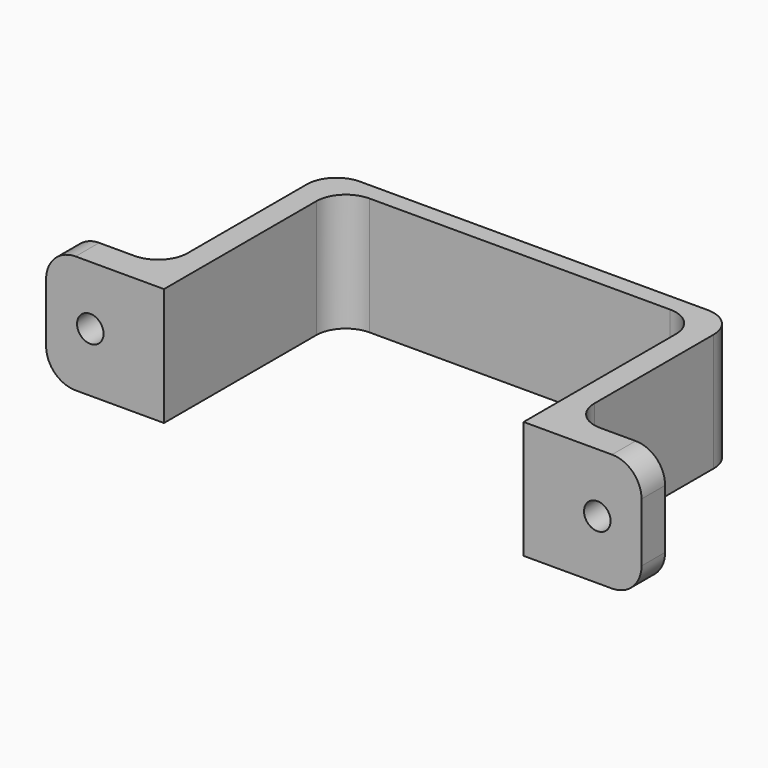
from build123d import *

# Parameters (mm, degrees)
F0_W     = 61
F0_H     = 3
F0_W_2   = 4
F0_H_2   = 32.3
F1_DEPTH = 20
F2_R     = 5
F5_D     = 4.5
F6_R     = 5
F7_R     = 5
F8_R     = 5


with BuildPart() as f1:
    # F0 (on Top) → F1 (new body)
    with BuildSketch(Plane.XY):
        Polygon((-28.105963, 0), (-44.105963, 0), (-44.105963, -5), (-24.105963, -5), (-24.105963, 0), align=None)
        Polygon((-28.105963, 35.3), (-28.105963, 0), (-24.105963, 0), (-24.105963, 32.3), (-24.105963, 35.3), align=None)
        with Locations((6.394037, 33.8)):
            Rectangle(F0_W, F0_H)
        with Locations((38.894037, 33.8)):
            Rectangle(F0_W_2, F0_H)
        with Locations((38.894037, 16.15)):
            Rectangle(F0_W_2, F0_H_2)
        Polygon((40.894037, 0), (36.894037, 0), (36.894037, -5), (56.894037, -5), (56.894037, 0), align=None)
    extrude(amount=F1_DEPTH)

    # F2
    f2_edges = [f1.edges().sort_by_distance(p)[0] for p in [
        (-24.105963, 32.3, 10),
        (36.894037, 32.3, 10),
    ]]
    fillet(f2_edges, radius=F2_R)

    # F5 (through all)
    with Locations(Plane(origin=(0, 0, 0), x_dir=(-1, 0, 0), z_dir=(0, 1, 0))):
        with Locations((36.605963, 10), (-49.394037, 10)):
            Hole(F5_D / 2)

    # F6
    f6_edges = [f1.edges().sort_by_distance(p)[0] for p in [
        (-28.105963, 35.3, 10),
        (40.894037, 35.3, 10),
    ]]
    fillet(f6_edges, radius=F6_R)

    # F7
    f7_edges = [f1.edges().sort_by_distance(p)[0] for p in [
        (-28.105963, 0, 10),
        (40.894037, 0, 10),
    ]]
    fillet(f7_edges, radius=F7_R)

    # F8
    f8_edges = [f1.edges().sort_by_distance(p)[0] for p in [
        (56.894037, -2.5, 20),
        (56.894037, -2.5, 0),
        (-44.105963, -2.5, 0),
        (-44.105963, -2.5, 20),
    ]]
    fillet(f8_edges, radius=F8_R)


solid = f1.part
